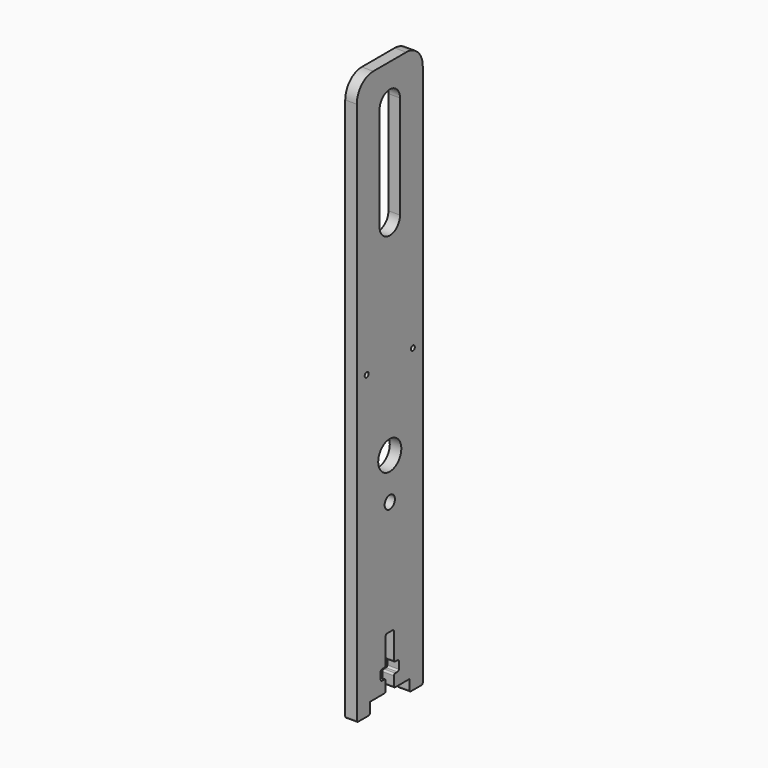
from build123d import *

# Parameters (mm, degrees)
SKETCH001_R             = 1.55
SKETCH001_R_2           = 0.6
PAD004_DEPTH            = 2.8
FILLET_R                = 0.4
FILLET001_R             = 5
SKETCH019_R             = 3.5
POCKET_DEPTH            = 2.801
BODY014_PLACEMENT_ANGLE = 180


with BuildPart() as part:
    # Sketch001 (on DatumPlane) → Pad004 (new body)
    with BuildSketch(Plane(origin=(-24.3, 0, 0), x_dir=(0, -1, 0), z_dir=(-1, 0, 0))):
        Polygon((-10, 84), (10, 84), (10, -53), (6, -53), (6, -50.2), (1.25, -50.2), (1.25, -47.2), (2.75, -47.2), (2.75, -44.7), (1.25, -44.7), (1.25, -37.7), (-1.25, -37.7), (-1.25, -44.7), (-2.75, -44.7), (-2.75, -47.2), (-1.25, -47.2), (-1.25, -50.2), (-6, -50.2), (-6, -53), (-10, -53), align=None)
        with Locations((0, -10)):
            Circle(SKETCH001_R, mode=Mode.SUBTRACT)
        with Locations((-7, 20)):
            Circle(SKETCH001_R_2, mode=Mode.SUBTRACT)
        with Locations((7, 20)):
            Circle(SKETCH001_R_2, mode=Mode.SUBTRACT)
        with BuildLine():
            ThreePointArc((3.1, 75), (0, 78.1), (-3.1, 75))
            Line((-3.1, 75), (-3.1, 50))
            ThreePointArc((-3.1, 50), (0, 46.9), (3.1, 50))
            Line((3.1, 50), (3.1, 75))
        make_face(mode=Mode.SUBTRACT)
    extrude(amount=PAD004_DEPTH)

    # Fillet
    fillet_edges = [part.edges().sort_by_distance(p)[0] for p in [
        (-25.7, 10, -53),
        (-25.7, 6, -53),
        (-25.7, -10, -53),
        (-25.7, -6, -53),
        (-25.7, 1.25, -50.2),
        (-25.7, -1.25, -50.2),
        (-25.7, 1.25, -37.7),
        (-25.7, -1.25, -37.7),
        (-25.7, 1.25, -47.2),
        (-25.7, -1.25, -47.2),
        (-25.7, 1.25, -44.7),
        (-25.7, -1.25, -44.7),
        (-25.7, -2.75, -47.2),
        (-25.7, 2.75, -47.2),
        (-25.7, 2.75, -44.7),
        (-25.7, -2.75, -44.7),
    ]]
    fillet(fillet_edges, radius=FILLET_R)

    # Fillet001
    fillet001_edges = [part.edges().sort_by_distance(p)[0] for p in [
        (-25.7, 10, 84),
        (-25.7, -10, 84),
    ]]
    fillet(fillet001_edges, radius=FILLET001_R)

    # Sketch019 (on Face47 of Fillet001) → Pocket (cut, through all)
    with BuildSketch(Plane(origin=(-27.1, 0, 0), x_dir=(0, -1, 0), z_dir=(-1, 0, 0))):
        Circle(SKETCH019_R)
    extrude(amount=-POCKET_DEPTH, mode=Mode.SUBTRACT)


with BuildPart() as part_1:
    # Body014 placement: moved
    add(part.part.moved(Location((0, 0, 20))).rotate(Axis((0, 0, 20), (0, 0, 1)), BODY014_PLACEMENT_ANGLE))


solid = part_1.part
